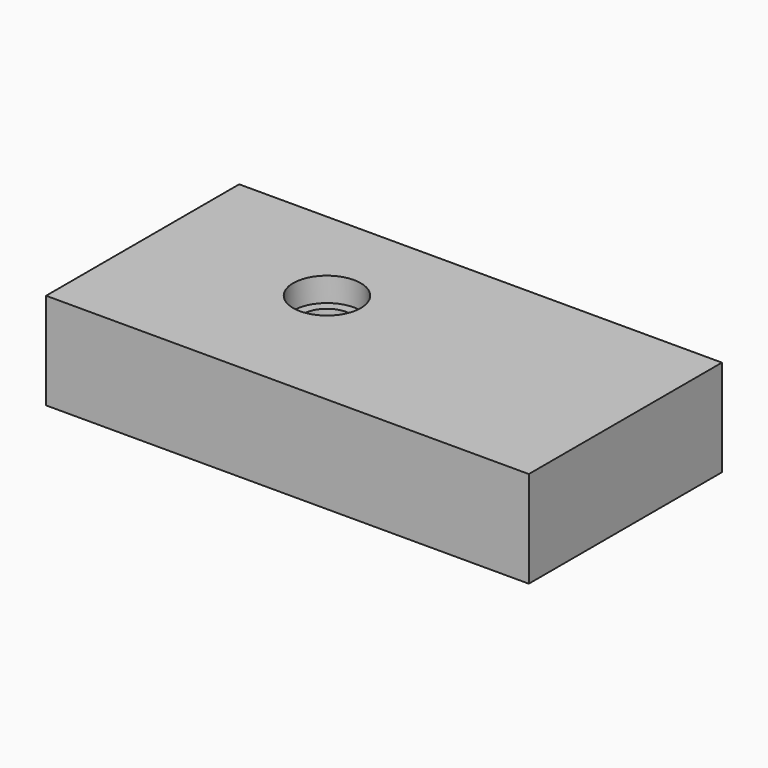
from build123d import *

# Parameters (mm, degrees)
F0_W     = 100
F0_H     = 50
F1_DEPTH = 20
F2_R     = 7
F3_DEPTH = 5
F4_R     = 5
F5_DEPTH = 5
F6_R     = 9
F7_DEPTH = 25


with BuildPart() as f1:
    # F0 (on Top) → F1 (new body)
    with BuildSketch(Plane.XY):
        with Locations((4.46457, -3.417686)):
            Rectangle(F0_W, F0_H)
    extrude(amount=F1_DEPTH)

    # F2 (on face) → F3 (cut)
    with BuildSketch(Plane.XY.offset(20)):
        with Locations((-10.082174, 0)):
            Circle(F2_R)
    extrude(amount=-F3_DEPTH, mode=Mode.SUBTRACT)

    # F4 (on face) → F5 (cut)
    with BuildSketch(Plane.XY.offset(15)):
        with Locations((-10.082174, 0)):
            Circle(F4_R)
    extrude(amount=-F5_DEPTH, mode=Mode.SUBTRACT)

    # F6 (on face) → F7 (cut)
    with BuildSketch(Plane.XY.offset(10)):
        with Locations((-10.082174, 0)):
            Circle(F6_R)
    extrude(amount=-F7_DEPTH, mode=Mode.SUBTRACT)


solid = f1.part
